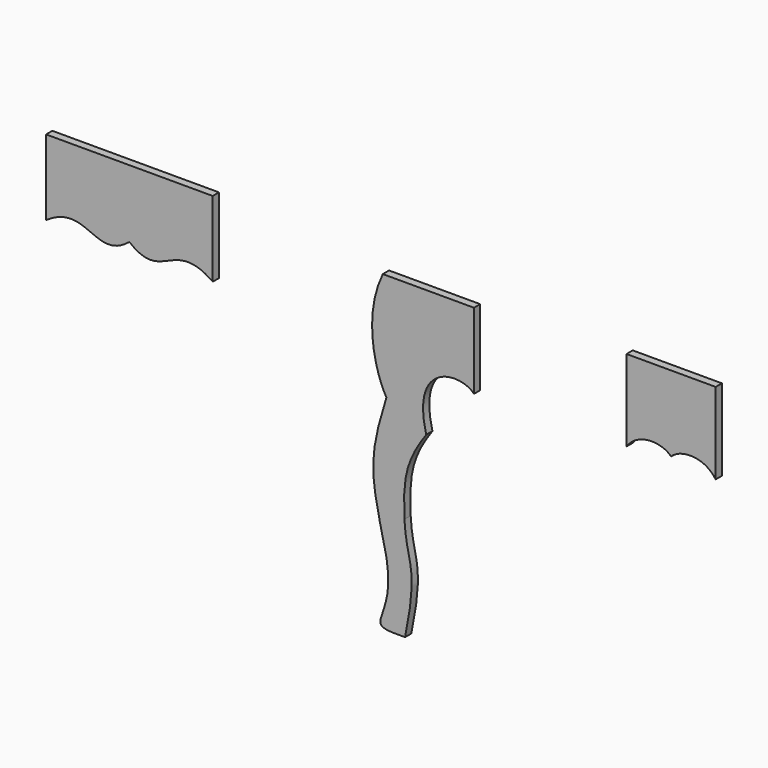
from build123d import *

# Parameters (mm, degrees)
F1_DEPTH = 15
F2_DEPTH = 15
F3_DEPTH = 15


with BuildPart() as f1:
    # F0 (on Front) → F1 (new body)
    with BuildSketch(Plane.XZ):
        with BuildLine():
            Line((463.110126, 255.169205), (288.110126, 255.169205))
            add(Edge.make_bspline(
                [(288.110126, 255.169205), (249.193357, 174.255844), (273.688601, 84.823082), (294.966065, 48.598974)],
                knots=[0, 0, 0, 0, 206.683972, 206.683972, 206.683972, 206.683972], degree=3))
            add(Edge.make_bspline(
                [(294.966065, 48.598974), (256.727729, -73.108729), (266.082252, -93.051994), (295.174377, -221.827967)],
                knots=[0, 0, 0, 0, 270.427022, 270.427022, 270.427022, 270.427022], degree=3))
            add(Edge.make_bspline(
                [(295.174377, -221.827967), (304.276329, -274.335988), (293.963748, -297.612955), (283.447891, -330.798209)],
                knots=[0, 0, 0, 0, 109.59938, 109.59938, 109.59938, 109.59938], degree=3))
            add(Edge.make_bspline(
                [(283.447891, -330.798209), (281.237967, -346.016963), (298.661124, -344.795057), (330.830317, -344.830795)],
                knots=[0, 0, 0, 0, 49.416674, 49.416674, 49.416674, 49.416674], degree=3))
            add(Edge.make_bspline(
                [(330.830317, -344.830795), (358.212999, -213.038297), (333.912301, -223.8161), (329.661631, -145.850426)],
                knots=[0, 0, 0, 0, 198.983801, 198.983801, 198.983801, 198.983801], degree=3))
            add(Edge.make_bspline(
                [(329.661631, -145.850426), (326.071466, -74.030816), (333.876299, -42.43674), (371.416426, 10.747927)],
                knots=[0, 0, 0, 0, 162.069451, 162.069451, 162.069451, 162.069451], degree=3))
            add(Edge.make_bspline(
                [(371.416426, 10.747927), (340.293404, 131.081836), (437.789615, 137.295173), (463.110126, 109.535025)],
                knots=[0, 0, 0, 0, 134.783624, 134.783624, 134.783624, 134.783624], degree=3))
            Line((463.110126, 109.535025), (463.110126, 255.169205))
        make_face()
    extrude(amount=F1_DEPTH)


with BuildPart() as f2:
    # F0 (on Front) → F2 (new body)
    with BuildSketch(Plane.XZ):
        with BuildLine():
            Line((927.280897, 272.260344), (756.055832, 272.260344))
            Line((756.055832, 272.260344), (756.055832, 115.83538))
            add(Edge.make_bspline(
                [(756.055832, 115.83538), (778.400105, 148.349309), (825.235044, 144.642838), (841.668364, 126.626164)],
                knots=[47.30741, 47.30741, 47.30741, 47.30741, 134.783624, 134.783624, 134.783624, 134.783624], degree=3))
            add(Edge.make_bspline(
                [(927.280897, 115.83538), (904.936623, 148.349309), (858.101684, 144.642838), (841.668364, 126.626164)],
                knots=[47.30741, 47.30741, 47.30741, 47.30741, 134.783624, 134.783624, 134.783624, 134.783624], degree=3))
            Line((927.280897, 115.83538), (927.280897, 272.260344))
        make_face()
    extrude(amount=F2_DEPTH)


with BuildPart() as f3:
    # F0 (on Front) → F3 (new body)
    with BuildSketch(Plane.XZ):
        with BuildLine():
            Line((-198.496819, 151.20326), (-198.496819, 280.984465))
            Line((-198.496819, 280.984465), (-358.496819, 280.984465))
            Line((-358.496819, 280.984465), (-358.496819, 135.984465))
            add(Edge.make_bspline(
                [(-198.496819, 151.20326), (-262.879595, 98.266304), (-281.73241, 190.196536), (-358.496819, 135.984465)],
                knots=[0, 0, 0, 0, 160.722157, 160.722157, 160.722157, 160.722157], degree=3))
        make_face()
        with BuildLine():
            Line((-38.496819, 135.984465), (-38.496819, 280.984465))
            Line((-38.496819, 280.984465), (-198.496819, 280.984465))
            Line((-198.496819, 280.984465), (-198.496819, 151.20326))
            add(Edge.make_bspline(
                [(-198.496819, 151.20326), (-134.114042, 98.266304), (-115.261227, 190.196536), (-38.496819, 135.984465)],
                knots=[0, 0, 0, 0, 160.722157, 160.722157, 160.722157, 160.722157], degree=3))
        make_face()
    extrude(amount=F3_DEPTH)


solid = Compound([f1.part, f2.part, f3.part])
